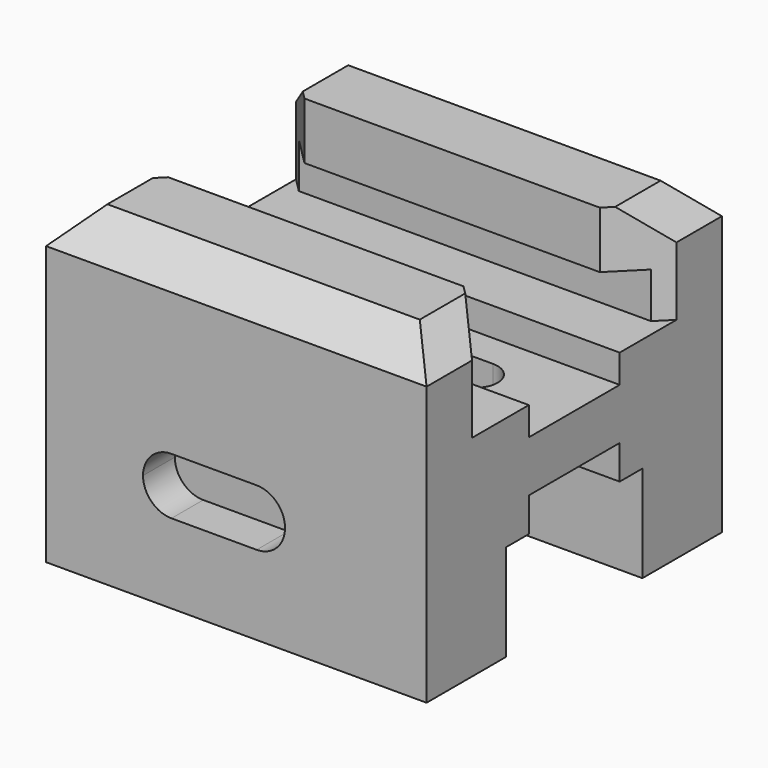
from build123d import *

# Parameters (mm, degrees)
F0_W      = 67
F0_H      = 55
F1_DEPTH  = 32.5
F3_DEPTH  = 33.5
F5_DEPTH  = 4.5
F8_DEPTH  = 6
F9_DEPTH  = 7
F11_D     = 5
F11_DEPTH = 13
F11_TIP   = 1.5021515476
F13_DEPTH = 18
F14_SIZE  = 6


with BuildPart() as f1:
    # F0 (on Front) → F1 (new body, symmetric)
    with BuildSketch(Plane.XZ):
        Rectangle(F0_W, F0_H)
    extrude(amount=F1_DEPTH, both=True)

    # F2 (on Right) → F3 (cut, symmetric)
    with BuildSketch(Plane.YZ):
        Polygon((-10, 4.5), (0, 4.5), (0, 27.5), (-15, 27.5), (-15, 17.5), (-20, 17.5), (-20, 9.5), (-10, 9.5), align=None)
        Polygon((0, 27.5), (0, 4.5), (10, 4.5), (10, 9.5), (20, 9.5), (20, 17.5), (15, 17.5), (15, 27.5), align=None)
        Polygon((10, -4.5), (0, -4.5), (0, -27.5), (15, -27.5), (15, -10.5), (10, -10.5), align=None)
        Polygon((0, -27.5), (0, -4.5), (-10, -4.5), (-10, -10.5), (-15, -10.5), (-15, -27.5), align=None)
    extrude(amount=F3_DEPTH, both=True, mode=Mode.SUBTRACT)

    # F4 (on Top) → F5 (cut, symmetric)
    with BuildSketch(Plane.XY):
        with BuildLine():
            ThreePointArc((20, 0), (18.8284271247, 2.8284271247), (16, 4))
            Line((16, 4), (-16, 4))
            ThreePointArc((-16, 4), (-18.8284271247, 2.8284271247), (-20, 0))
            ThreePointArc((-20, 0), (-18.8284271247, -2.8284271247), (-16, -4))
            Line((-16, -4), (16, -4))
            ThreePointArc((16, -4), (18.8284271247, -2.8284271247), (20, 0))
        make_face()
    extrude(amount=F5_DEPTH, both=True, mode=Mode.SUBTRACT)

    # F7 (on face) → F8 (cut)
    with BuildSketch(Plane(origin=(0, 32.5, 0), x_dir=(-1, 0, 0), z_dir=(0, 1, 0))):
        with BuildLine():
            Line((0, -3.5), (-3.5, -3.5))
            ThreePointArc((-3.5, -3.5), (-7.0355339059, -4.9644660941), (-8.5, -8.5))
            ThreePointArc((-8.5, -8.5), (-7.0355339059, -12.0355339059), (-3.5, -13.5))
            Line((-3.5, -13.5), (11.5, -13.5))
            ThreePointArc((11.5, -13.5), (15.0355339059, -12.0355339059), (16.5, -8.5))
            ThreePointArc((16.5, -8.5), (15.0355339059, -4.9644660941), (11.5, -3.5))
            Line((11.5, -3.5), (0, -3.5))
        make_face()
    extrude(amount=-F8_DEPTH, mode=Mode.SUBTRACT)

    # F6 (on face) → F9 (cut)
    with BuildSketch(Plane.XZ.offset(32.5)):
        with BuildLine():
            Line((0, -3.5220243782), (-11.4281616919, -3.5220243782))
            ThreePointArc((-11.4281616919, -3.5220243782), (-14.9636955978, -4.9864904722), (-16.4281616919, -8.5220243782))
            ThreePointArc((-16.4281616919, -8.5220243782), (-14.9636955978, -12.0575582841), (-11.4281616919, -13.5220243782))
            Line((-11.4281616919, -13.5220243782), (3.5718383081, -13.5220243782))
            ThreePointArc((3.5718383081, -13.5220243782), (7.1073722141, -12.0575582841), (8.5718383081, -8.5220243782))
            ThreePointArc((8.5718383081, -8.5220243782), (7.1073722141, -4.9864904722), (3.5718383081, -3.5220243782))
            Line((3.5718383081, -3.5220243782), (0, -3.5220243782))
        make_face()
    extrude(amount=-F9_DEPTH, mode=Mode.SUBTRACT)

    # F11
    with Locations(Plane(origin=(0, 0, -27.5), x_dir=(1, 0, 0), z_dir=(0, 0, -1))):
        with Locations((-19, -21), (-19, 21), (19, 21), (19, -21)):
            Hole(F11_D / 2, depth=F11_DEPTH)
            with Locations((0, 0, -(F11_DEPTH + F11_TIP / 2))):  # 118° drill point
                Cone(0, F11_D / 2, F11_TIP, mode=Mode.SUBTRACT)

    # F12 (on face) → F13 (cut)
    with BuildSketch(Plane.XY.offset(27.5)):
        Polygon((-33.5, 15), (-26, 15), (-33.5, 22.5), align=None)
        Polygon((33.5, 22.5), (26, 15), (33.5, 15), align=None)
        Polygon((26, -15), (33.5, -22.5), (33.5, -15), align=None)
        Polygon((-33.5, -15), (-33.5, -22.5), (-26, -15), align=None)
    extrude(amount=-F13_DEPTH, mode=Mode.SUBTRACT)

    # F14
    f14_edges = [f1.edges().sort_by_distance(p)[0] for p in [
        (33.5, -27.5, 27.5),
        (0, -32.5, 27.5),
        (-33.5, -27.5, 27.5),
        (33.5, 27.5, 27.5),
        (0, 32.5, 27.5),
        (-33.5, 27.5, 27.5),
    ]]
    chamfer(f14_edges, length=F14_SIZE)


solid = f1.part
